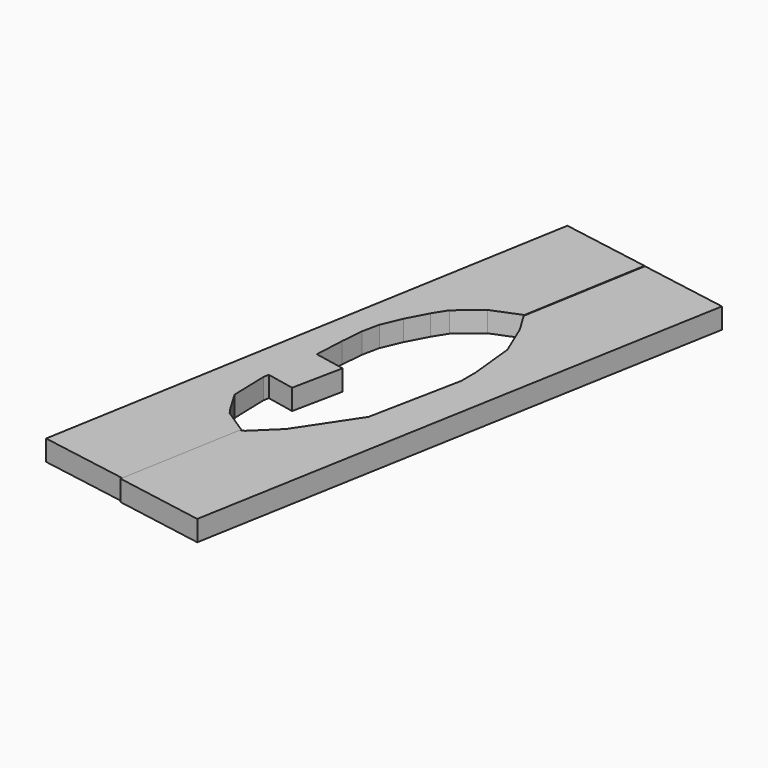
from build123d import *

# Parameters (mm, degrees)
F2_DEPTH = 5
F4_DEPTH = 5


with BuildPart() as f2:
    # F1 (on Top) → F2 (new body)
    with BuildSketch(Plane.XY):
        Polygon((-19.450109, 37.130519), (-12.644509, 39.881718), (-7.500883, 69.881718), (-29.18448, 73.599461), (-51.777371, -56.320929), (-30.093774, -60.038672), (-25.024123, -30.470131), (-31.072693, -26.497049), (-32.080788, -25.073858), (-35.129674, -19.962974), (-35.388711, -10.790382), (-35.129674, -9.529376), (-28.38634, -10.914599), (-25.879872, 1.287019), (-33.306506, 2.73498), (-32.944723, 9.979684), (-32.483972, 15.4575), (-31.613313, 19.609716), (-29.586111, 24.388117), (-26.979711, 29.311316), (-24.952511, 32.496921), align=None)
    extrude(amount=F2_DEPTH)


with BuildPart() as f4:
    # F3 (on Top) → F4 (new body)
    with BuildSketch(Plane.XY):
        Polygon((-7.306713, 69.785409), (-12.536187, 39.534085), (-9.59153, 34.673627), (-6.256615, 26.726599), (-5.104751, 15.571803), (-5.104751, 11.24485), (-9.59153, -11.200474), (-16.661916, -21.832471), (-18.687059, -24.870184), (-24.2562, -30.270562), (-25.259029, -30.849103), (-30.447014, -60.3968), (-8.778482, -64.201362), (14.37176, 66.037903), align=None)
    extrude(amount=F4_DEPTH)


solid = Compound([f2.part, f4.part])
